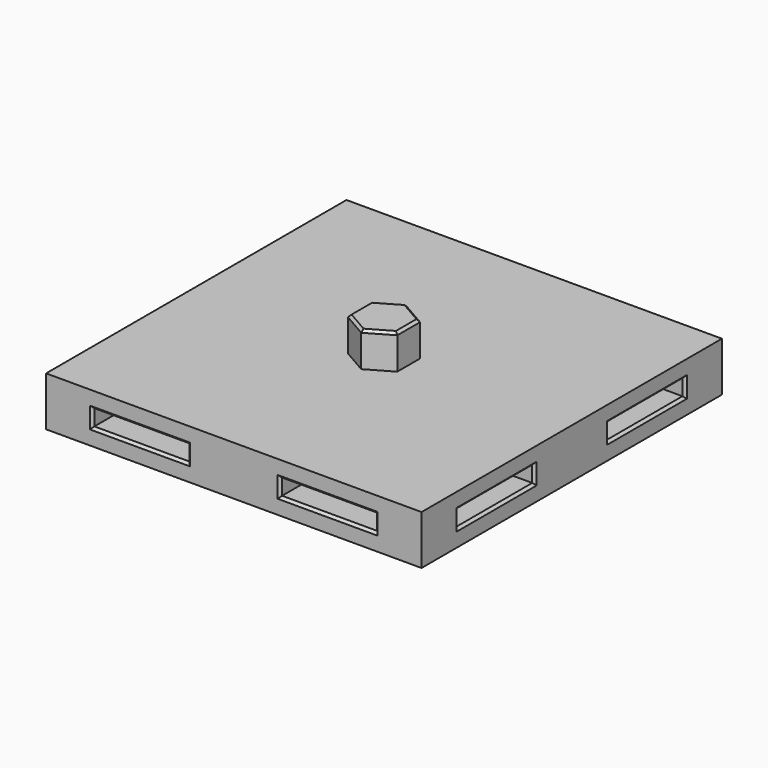
from build123d import *

# Parameters (mm, degrees)
F0_W     = 76.2
F0_H     = 76.2
F1_DEPTH = 10
F3_DEPTH = 7
F5_DEPTH = 7.25
F6_W     = 19.3
F6_H     = 3.25
F8_DEPTH = 6.6
F9_COUNT = 4
F9_ANGLE = 270
F11_SIZE = 0.5


with BuildPart() as f1:
    # F0 (on Top) → F1 (new body)
    with BuildSketch(Plane.XY):
        Rectangle(F0_W, F0_H)
    extrude(amount=F1_DEPTH)

    # F2 (on face) → F3 (join)
    with BuildSketch(Plane.XY.offset(10)):
        Polygon((5, -2.8867513459), (5, 2.8867513459), (0, 5.7735026919), (-5, 2.8867513459), (-5, -2.8867513459), (0, -5.7735026919), align=None)
    extrude(amount=F3_DEPTH)

    # F4 (on face) → F5 (cut)
    with BuildSketch(Plane(origin=(0, 0, 0), x_dir=(1, 0, 0), z_dir=(0, 0, -1))):
        Polygon((5.25, -3.0310889132), (5.25, 3.0310889132), (0, 6.0621778265), (-5.25, 3.0310889132), (-5.25, -3.0310889132), (0, -6.0621778265), align=None)
    extrude(amount=-F5_DEPTH, mode=Mode.SUBTRACT)


with BuildPart() as f8:
    # F6 (on face) → F8 (new body)
    with BuildSketch(Plane.XZ.offset(38.1)):
        with Locations((-19.05, 5)):
            Rectangle(F6_W, F6_H)
    extrude(amount=-F8_DEPTH)


with BuildPart() as f8b:
    # F6 (on face) → F8, piece 2 (new body)
    with BuildSketch(Plane.XZ.offset(38.1)):
        with Locations((19.05, 5)):
            Rectangle(F6_W, F6_H)
    extrude(amount=-F8_DEPTH)


with BuildPart() as f9_1:
    # F9: instance of F8b
    add(f8b.part.rotate(Axis((0, 0, 20.068032667), (0, 0, -1)), 1 * F9_ANGLE / (F9_COUNT - 1)))


with BuildPart() as f9_2:
    # F9: instance of F8b
    add(f8b.part.rotate(Axis((0, 0, 20.068032667), (0, 0, -1)), 2 * F9_ANGLE / (F9_COUNT - 1)))


with BuildPart() as f9_3:
    # F9: instance of F8b
    add(f8b.part.rotate(Axis((0, 0, 20.068032667), (0, 0, -1)), 3 * F9_ANGLE / (F9_COUNT - 1)))


with BuildPart() as f9_4:
    # F9: instance of F8
    add(f8.part.rotate(Axis((0, 0, 20.068032667), (0, 0, -1)), 1 * F9_ANGLE / (F9_COUNT - 1)))


with BuildPart() as f9_5:
    # F9: instance of F8
    add(f8.part.rotate(Axis((0, 0, 20.068032667), (0, 0, -1)), 2 * F9_ANGLE / (F9_COUNT - 1)))


with BuildPart() as f9_6:
    # F9: instance of F8
    add(f8.part.rotate(Axis((0, 0, 20.068032667), (0, 0, -1)), 3 * F9_ANGLE / (F9_COUNT - 1)))


with BuildPart() as f1_1:
    add(f1.part)

    # F10: cut F9_3, F9_6, F9_2, F9_5, F9_1, F9_4, F8b, F8
    add(f9_3.part, mode=Mode.SUBTRACT)
    add(f9_6.part, mode=Mode.SUBTRACT)
    add(f9_2.part, mode=Mode.SUBTRACT)
    add(f9_5.part, mode=Mode.SUBTRACT)
    add(f9_1.part, mode=Mode.SUBTRACT)
    add(f9_4.part, mode=Mode.SUBTRACT)
    add(f8b.part, mode=Mode.SUBTRACT)
    add(f8.part, mode=Mode.SUBTRACT)

    # F11
    f11_edges = [f1_1.edges().sort_by_distance(p)[0] for p in [
        (5, 0, 17),
        (2.5, 4.330127, 17),
        (-2.5, 4.330127, 17),
        (-5, 0, 17),
        (-2.5, -4.330127, 17),
        (2.5, -4.330127, 17),
        (2.625, 4.546633, 0),
        (5.25, 0, 0),
        (2.625, -4.546633, 0),
        (-2.625, -4.546633, 0),
        (-5.25, 0, 0),
        (-2.625, 4.546633, 0),
        (38.1, -19.05, 6.625),
        (38.1, -9.4, 5),
        (38.1, -19.05, 3.375),
        (38.1, -28.7, 5),
        (38.1, 19.05, 3.375),
        (38.1, 9.4, 5),
        (38.1, 28.7, 5),
        (38.1, 19.05, 6.625),
        (19.05, 38.1, 6.625),
        (28.7, 38.1, 5),
        (9.4, 38.1, 5),
        (19.05, 38.1, 3.375),
        (28.7, -38.1, 5),
        (19.05, -38.1, 6.625),
        (9.4, -38.1, 5),
        (19.05, -38.1, 3.375),
        (-9.4, -38.1, 5),
        (-19.05, -38.1, 6.625),
        (-19.05, -38.1, 3.375),
        (-28.7, -38.1, 5),
        (-38.1, -28.7, 5),
        (-38.1, -19.05, 6.625),
        (-38.1, -9.4, 5),
        (-38.1, -19.05, 3.375),
        (-38.1, 9.4, 5),
        (-38.1, 19.05, 6.625),
        (-38.1, 28.7, 5),
        (-38.1, 19.05, 3.375),
        (-19.05, 38.1, 6.625),
        (-28.7, 38.1, 5),
        (-9.4, 38.1, 5),
        (-19.05, 38.1, 3.375),
    ]]
    chamfer(f11_edges, length=F11_SIZE)


solid = f1_1.part
